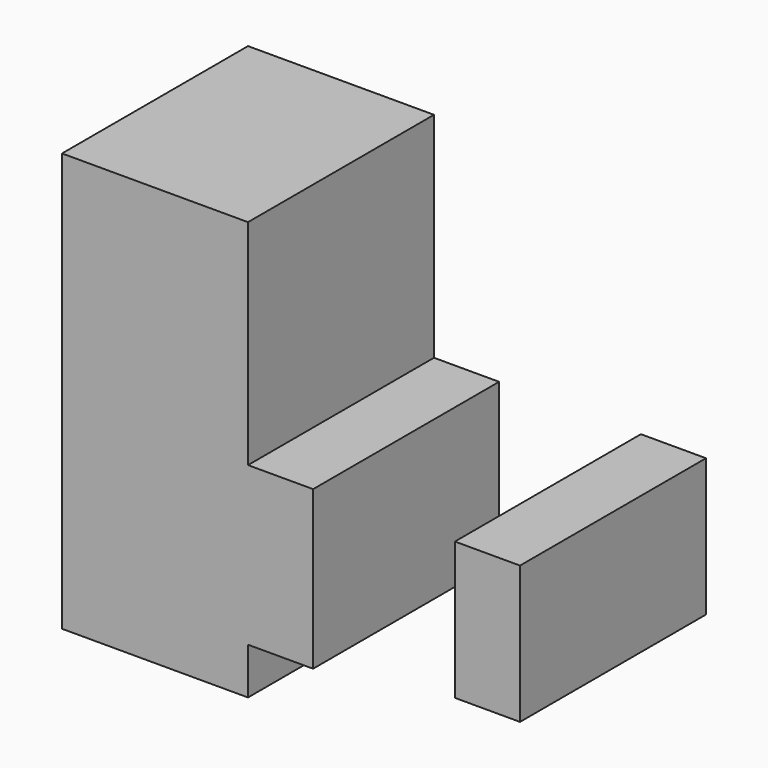
from build123d import *

# Parameters (mm, degrees)
F0_W     = 7
F0_H     = 17
F0_H_2   = 14.8
F1_DEPTH = 25


with BuildPart() as f1:
    # F0 (on Front) → F1 (new body)
    with BuildSketch(Plane.XZ):
        Polygon((-10, 17.5), (-10, -17.5), (10, -17.5), (10, -12.5), (10, 4.5), (10, 17.5), (10, 27.5), (-10, 27.5), align=None)
        with Locations((13.5, -4)):
            Rectangle(F0_W, F0_H)
        with Locations((35.748247, -2.9)):
            Rectangle(F0_W, F0_H_2)
    extrude(amount=F1_DEPTH)


solid = f1.part
